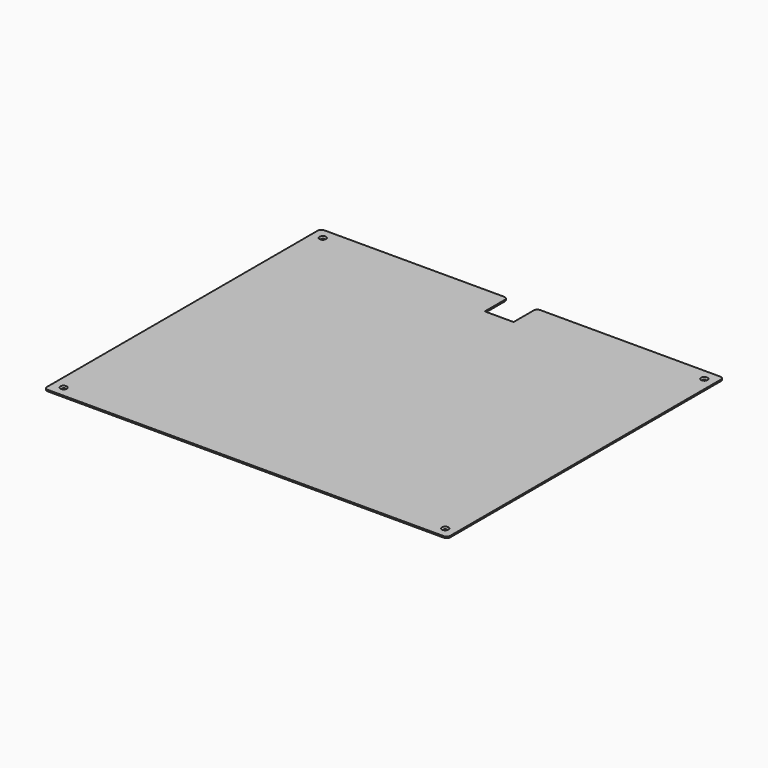
from build123d import *

# Parameters (mm, degrees)
F1_DEPTH       = 2
F3_D           = 4.4
F3_CSINK_D     = 8.96
F3_CSINK_ANGLE = 90


with BuildPart() as f1:
    # F0 (on Top) → F1 (new body)
    with BuildSketch(Plane.XY):
        with BuildLine():
            Line((-275, -240), (275, -240))
            ThreePointArc((275, -240), (278.5355339059, -238.5355339059), (280, -235))
            Line((280, -235), (280, 235))
            ThreePointArc((280, 235), (278.5355339059, 238.5355339059), (275, 240))
            Line((275, 240), (25, 240))
            ThreePointArc((25, 240), (21.4644660941, 238.5355339059), (20, 235))
            Line((20, 235), (20, 200))
            Line((20, 200), (-20, 200))
            Line((-20, 200), (-20, 235))
            ThreePointArc((-20, 235), (-21.4644660941, 238.5355339059), (-25, 240))
            Line((-25, 240), (-275, 240))
            ThreePointArc((-275, 240), (-278.5355339059, 238.5355339059), (-280, 235))
            Line((-280, 235), (-280, -235))
            ThreePointArc((-280, -235), (-278.5355339059, -238.5355339059), (-275, -240))
        make_face()
    extrude(amount=F1_DEPTH)

    # F3 (through all)
    with Locations(Plane.XY.offset(2)):
        with Locations((-265, -225), (-265, 225), (265, 225), (265, -225)):
            CounterSinkHole(F3_D / 2, F3_CSINK_D / 2, counter_sink_angle=F3_CSINK_ANGLE)


solid = f1.part
